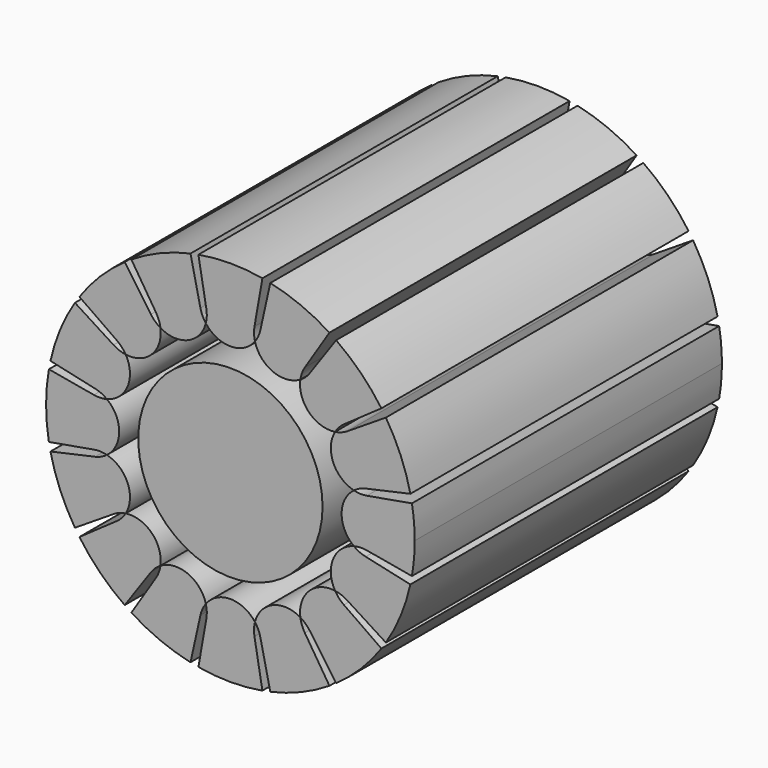
from build123d import *

# Parameters (mm, degrees)
F0_R     = 6
F1_DEPTH = 25


with BuildPart() as f1:
    # F0 (on Front) → F1 (new body)
    with BuildSketch(Plane.XZ):
        with BuildLine():
            ThreePointArc((-4.553878, 6.815361), (-2.770801, 6.689306), (-1.599109, 8.039266))
            ThreePointArc((-1.599109, 8.039266), (-1.816926, 8.404522), (-1.952592, 8.807573))
            Line((-1.952592, 8.807573), (-2.597275, 11.715552))
            ThreePointArc((-2.597275, 11.715552), (-4.592201, 11.086554), (-6.447595, 10.120697))
            Line((-6.447595, 10.120697), (-4.847204, 7.608586))
            ThreePointArc((-4.847204, 7.608586), (-4.658134, 7.227655), (-4.553878, 6.815361))
        make_face()
        with BuildLine():
            ThreePointArc((-1.599109, 8.039266), (0, 7.240453), (1.599109, 8.039266))
            ThreePointArc((1.599109, 8.039266), (1.537651, 8.460073), (1.566553, 8.884361))
            Line((1.566553, 8.884361), (2.083778, 11.817693))
            ThreePointArc((2.083778, 11.817693), (0, 12), (-2.083778, 11.817693))
            Line((-2.083778, 11.817693), (-1.566553, 8.884361))
            ThreePointArc((-1.566553, 8.884361), (-1.537651, 8.460073), (-1.599109, 8.039266))
        make_face()
        with BuildLine():
            ThreePointArc((1.599109, 8.039266), (2.770801, 6.689306), (4.553878, 6.815361))
            ThreePointArc((4.553878, 6.815361), (4.658134, 7.227655), (4.847204, 7.608586))
            Line((4.847204, 7.608586), (6.447595, 10.120697))
            ThreePointArc((6.447595, 10.120697), (4.592201, 11.086554), (2.597275, 11.715552))
            Line((2.597275, 11.715552), (1.952592, 8.807573))
            ThreePointArc((1.952592, 8.807573), (1.816926, 8.404522), (1.599109, 8.039266))
        make_face()
        with BuildLine():
            Line((7.389912, 5.174472), (9.829825, 6.882917))
            ThreePointArc((9.829825, 6.882917), (8.485281, 8.485281), (6.882917, 9.829825))
            Line((6.882917, 9.829825), (5.174472, 7.389912))
            ThreePointArc((5.174472, 7.389912), (4.894892, 7.069458), (4.553878, 6.815361))
            ThreePointArc((4.553878, 6.815361), (5.119773, 5.119773), (6.815361, 4.553878))
            ThreePointArc((6.815361, 4.553878), (7.069458, 4.894892), (7.389912, 5.174472))
        make_face()
        with BuildLine():
            Line((8.807573, 1.952592), (11.715552, 2.597275))
            ThreePointArc((11.715552, 2.597275), (11.086554, 4.592201), (10.120697, 6.447595))
            Line((10.120697, 6.447595), (7.608586, 4.847204))
            ThreePointArc((7.608586, 4.847204), (7.227655, 4.658134), (6.815361, 4.553878))
            ThreePointArc((6.815361, 4.553878), (6.689306, 2.770801), (8.039266, 1.599109))
            ThreePointArc((8.039266, 1.599109), (8.404522, 1.816926), (8.807573, 1.952592))
        make_face()
        with BuildLine():
            ThreePointArc((11.817693, -2.083778), (11.954336, -1.045869), (12, 0))
            ThreePointArc((12, 0), (11.954336, 1.045869), (11.817693, 2.083778))
            Line((11.817693, 2.083778), (8.884361, 1.566553))
            ThreePointArc((8.884361, 1.566553), (8.460073, 1.537651), (8.039266, 1.599109))
            ThreePointArc((8.039266, 1.599109), (7.240453, 0), (8.039266, -1.599109))
            ThreePointArc((8.039266, -1.599109), (8.460073, -1.537651), (8.884361, -1.566553))
            Line((8.884361, -1.566553), (11.817693, -2.083778))
        make_face()
        with BuildLine():
            ThreePointArc((6.882917, -9.829825), (8.485281, -8.485281), (9.829825, -6.882917))
            Line((9.829825, -6.882917), (7.389912, -5.174472))
            ThreePointArc((7.389912, -5.174472), (7.069458, -4.894892), (6.815361, -4.553878))
            ThreePointArc((6.815361, -4.553878), (5.119773, -5.119773), (4.553878, -6.815361))
            ThreePointArc((4.553878, -6.815361), (4.894892, -7.069458), (5.174472, -7.389912))
            Line((5.174472, -7.389912), (6.882917, -9.829825))
        make_face()
        with BuildLine():
            ThreePointArc((1.566553, -8.884361), (1.537651, -8.460073), (1.599109, -8.039266))
            ThreePointArc((1.599109, -8.039266), (0, -7.240453), (-1.599109, -8.039266))
            ThreePointArc((-1.599109, -8.039266), (-1.537651, -8.460073), (-1.566553, -8.884361))
            Line((-1.566553, -8.884361), (-2.083778, -11.817693))
            ThreePointArc((-2.083778, -11.817693), (0, -12), (2.083778, -11.817693))
            Line((2.083778, -11.817693), (1.566553, -8.884361))
        make_face()
        with BuildLine():
            ThreePointArc((-1.952592, -8.807573), (-1.816926, -8.404522), (-1.599109, -8.039266))
            ThreePointArc((-1.599109, -8.039266), (-2.770801, -6.689306), (-4.553878, -6.815361))
            ThreePointArc((-4.553878, -6.815361), (-4.658134, -7.227655), (-4.847204, -7.608586))
            Line((-4.847204, -7.608586), (-6.447595, -10.120697))
            ThreePointArc((-6.447595, -10.120697), (-4.592201, -11.086554), (-2.597275, -11.715552))
            Line((-2.597275, -11.715552), (-1.952592, -8.807573))
        make_face()
        with BuildLine():
            ThreePointArc((-5.174472, -7.389912), (-4.894892, -7.069458), (-4.553878, -6.815361))
            ThreePointArc((-4.553878, -6.815361), (-5.119773, -5.119773), (-6.815361, -4.553878))
            ThreePointArc((-6.815361, -4.553878), (-7.069458, -4.894892), (-7.389912, -5.174472))
            Line((-7.389912, -5.174472), (-9.829825, -6.882917))
            ThreePointArc((-9.829825, -6.882917), (-8.485281, -8.485281), (-6.882917, -9.829825))
            Line((-6.882917, -9.829825), (-5.174472, -7.389912))
        make_face()
        with BuildLine():
            ThreePointArc((-7.608586, -4.847204), (-7.227655, -4.658134), (-6.815361, -4.553878))
            ThreePointArc((-6.815361, -4.553878), (-6.689306, -2.770801), (-8.039266, -1.599109))
            ThreePointArc((-8.039266, -1.599109), (-8.404522, -1.816926), (-8.807573, -1.952592))
            Line((-8.807573, -1.952592), (-11.715552, -2.597275))
            ThreePointArc((-11.715552, -2.597275), (-11.086554, -4.592201), (-10.120697, -6.447595))
            Line((-10.120697, -6.447595), (-7.608586, -4.847204))
        make_face()
        with BuildLine():
            ThreePointArc((-8.039266, -1.599109), (-7.240453, 0), (-8.039266, 1.599109))
            ThreePointArc((-8.039266, 1.599109), (-8.460073, 1.537651), (-8.884361, 1.566553))
            Line((-8.884361, 1.566553), (-11.817693, 2.083778))
            ThreePointArc((-11.817693, 2.083778), (-12, 0), (-11.817693, -2.083778))
            Line((-11.817693, -2.083778), (-8.884361, -1.566553))
            ThreePointArc((-8.884361, -1.566553), (-8.460073, -1.537651), (-8.039266, -1.599109))
        make_face()
        with BuildLine():
            ThreePointArc((-8.039266, 1.599109), (-6.689306, 2.770801), (-6.815361, 4.553878))
            ThreePointArc((-6.815361, 4.553878), (-7.227655, 4.658134), (-7.608586, 4.847204))
            Line((-7.608586, 4.847204), (-10.120697, 6.447595))
            ThreePointArc((-10.120697, 6.447595), (-11.086554, 4.592201), (-11.715552, 2.597275))
            Line((-11.715552, 2.597275), (-8.807573, 1.952592))
            ThreePointArc((-8.807573, 1.952592), (-8.404522, 1.816926), (-8.039266, 1.599109))
        make_face()
        with BuildLine():
            ThreePointArc((-6.815361, 4.553878), (-5.119773, 5.119773), (-4.553878, 6.815361))
            ThreePointArc((-4.553878, 6.815361), (-4.894892, 7.069458), (-5.174472, 7.389912))
            Line((-5.174472, 7.389912), (-6.882917, 9.829825))
            ThreePointArc((-6.882917, 9.829825), (-8.485281, 8.485281), (-9.829825, 6.882917))
            Line((-9.829825, 6.882917), (-7.389912, 5.174472))
            ThreePointArc((-7.389912, 5.174472), (-7.069458, 4.894892), (-6.815361, 4.553878))
        make_face()
        with BuildLine():
            ThreePointArc((4.847204, -7.608586), (4.658134, -7.227655), (4.553878, -6.815361))
            ThreePointArc((4.553878, -6.815361), (2.770801, -6.689306), (1.599109, -8.039266))
            ThreePointArc((1.599109, -8.039266), (1.816926, -8.404522), (1.952592, -8.807573))
            Line((1.952592, -8.807573), (2.597275, -11.715552))
            ThreePointArc((2.597275, -11.715552), (4.592201, -11.086554), (6.447595, -10.120697))
            Line((6.447595, -10.120697), (4.847204, -7.608586))
        make_face()
        with BuildLine():
            ThreePointArc((10.120697, -6.447595), (11.086554, -4.592201), (11.715552, -2.597275))
            Line((11.715552, -2.597275), (8.807573, -1.952592))
            ThreePointArc((8.807573, -1.952592), (8.404522, -1.816926), (8.039266, -1.599109))
            ThreePointArc((8.039266, -1.599109), (6.689306, -2.770801), (6.815361, -4.553878))
            ThreePointArc((6.815361, -4.553878), (7.227655, -4.658134), (7.608586, -4.847204))
            Line((7.608586, -4.847204), (10.120697, -6.447595))
        make_face()
        Circle(F0_R)
    extrude(amount=F1_DEPTH)


solid = f1.part
